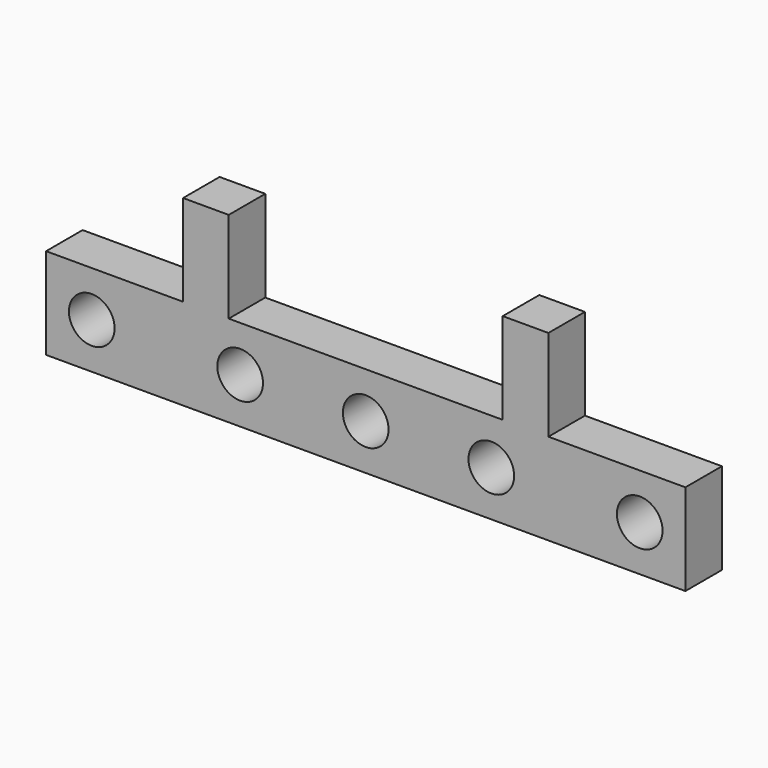
from build123d import *

# Parameters (mm, degrees)
F0_R     = 2
F1_DEPTH = 4


with BuildPart() as f1:
    # F0 (on Front) → F1 (new body)
    with BuildSketch(Plane.XZ):
        Polygon((-28, 4), (-28, -4), (28, -4), (28, 4), (16, 4), (16, 12), (12, 12), (12, 4), (0, 4), (-12, 4), (-12, 12), (-16, 12), (-16, 4), align=None)
        with Locations((-24, 0)):
            Circle(F0_R, mode=Mode.SUBTRACT)
        with Locations((-11, 0)):
            Circle(F0_R, mode=Mode.SUBTRACT)
        Circle(F0_R, mode=Mode.SUBTRACT)
        with Locations((11, 0)):
            Circle(F0_R, mode=Mode.SUBTRACT)
        with Locations((24, 0)):
            Circle(F0_R, mode=Mode.SUBTRACT)
    extrude(amount=F1_DEPTH)


solid = f1.part
